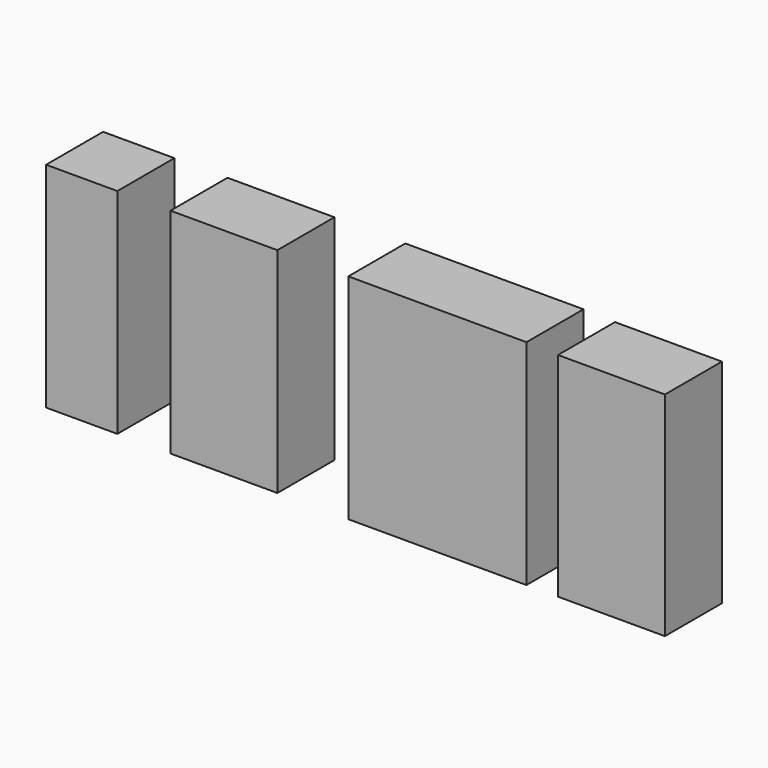
from build123d import *

# Parameters (mm, degrees)
F0_W     = 38.1
F0_H     = 76.2
F0_W_2   = 63.5
F0_H_2   = 75.833652
F0_W_3   = 25.4
F1_DEPTH = 12.7


with BuildPart() as f1:
    # F0 (on Front) → F1 (new body, symmetric)
    with BuildSketch(Plane.XZ):
        with Locations((-74.776393, -14.792662)):
            Rectangle(F0_W, F0_H)
        with Locations((1.301483, -14.792662)):
            Rectangle(F0_W_2, F0_H)
        with Locations((63.336089, -14.975836)):
            Rectangle(F0_W, F0_H_2)
        with Locations((-125.45428, -14.792662)):
            Rectangle(F0_W_3, F0_H)
    extrude(amount=F1_DEPTH, both=True)


solid = f1.part
